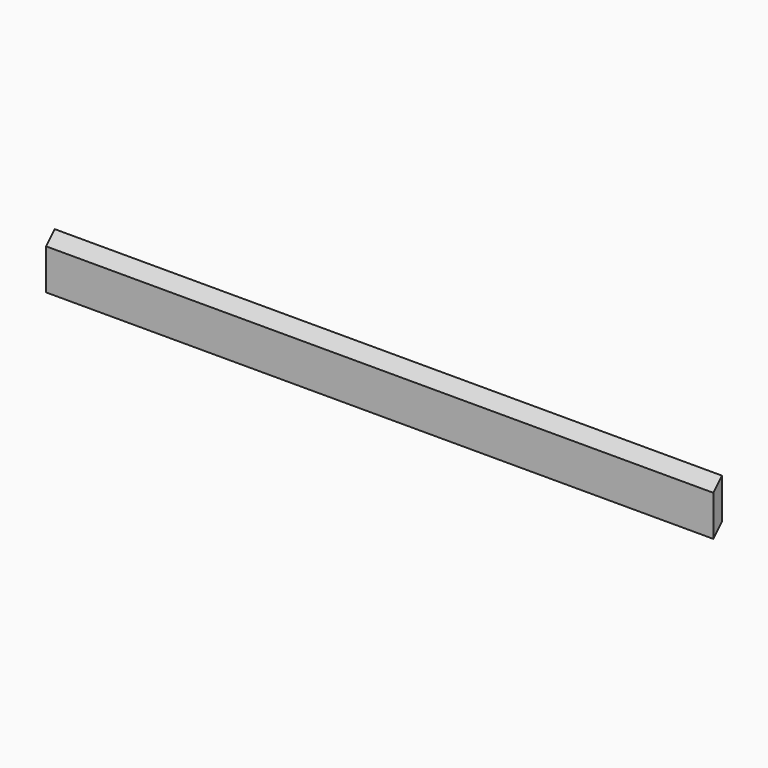
from build123d import *

# Parameters (mm, degrees)
F0_W     = 1181.1
F0_H     = 71.8312
F1_DEPTH = 19.05
F3_DEPTH = 1181.101
F5_DEPTH = 1181.1


with BuildPart() as f1:
    # F0 (on Front) → F1 (new body)
    with BuildSketch(Plane.XZ):
        Rectangle(F0_W, F0_H)
    extrude(amount=F1_DEPTH)

    # F2 (on face) → F3 (cut, through all)
    with BuildSketch(Plane.YZ.offset(590.55)):
        Polygon((0, -16.8656), (-19.05, -35.9156), (0, -35.9156), align=None)
    extrude(amount=-F3_DEPTH, mode=Mode.SUBTRACT)

    # F4 (on face) → F5 (join)
    with BuildSketch(Plane.YZ.offset(590.55)):
        Polygon((0, 54.9656), (-19.05, 35.9156), (0, 35.9156), align=None)
    extrude(amount=-F5_DEPTH)


solid = f1.part
